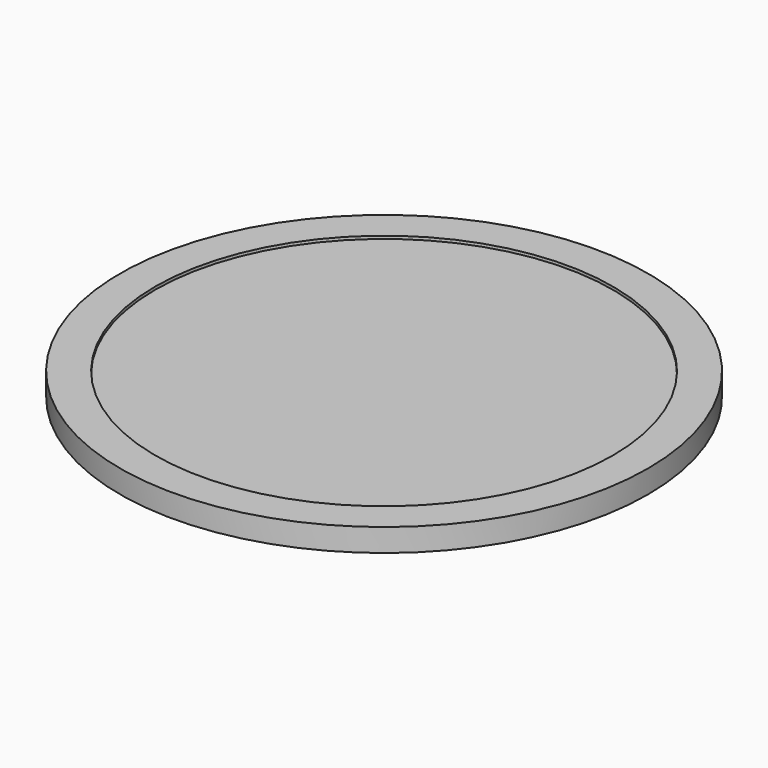
from build123d import *

# Parameters (mm, degrees)
SKETCH040_R   = 92.3
SKETCH040_R_2 = 80
PAD025_DEPTH  = 1
SKETCH041_R   = 92.3
SKETCH041_R_2 = 90
PAD026_DEPTH  = 5
FILLET_R      = 4
SKETCH042_R   = 92.3
PAD027_DEPTH  = 2


with BuildPart() as part:
    # Sketch040 → Pad025 (new body)
    with BuildSketch(Plane.XY):
        Circle(SKETCH040_R)
        Circle(SKETCH040_R_2, mode=Mode.SUBTRACT)
    extrude(amount=PAD025_DEPTH)

    # Sketch041 (on Face3 of Pad025) → Pad026 (join)
    with BuildSketch(Plane(origin=(0, 0, 0), x_dir=(1, 0, 0), z_dir=(0, 0, -1))):
        Circle(SKETCH041_R)
        Circle(SKETCH041_R_2, mode=Mode.SUBTRACT)
    extrude(amount=PAD026_DEPTH)

    # Fillet
    fillet_edges = [part.edges().sort_by_distance(p)[0] for p in [
        (-90, 0, 0),
    ]]
    fillet(fillet_edges, radius=FILLET_R)

    # Sketch042 (on Face3 of Fillet) → Pad027 (join)
    with BuildSketch(Plane(origin=(0, 0, -5), x_dir=(1, 0, 0), z_dir=(0, 0, -1))):
        Circle(SKETCH042_R)
    extrude(amount=PAD027_DEPTH)


with BuildPart() as part_1:
    # Body025 placement: moved
    add(part.part.moved(Location((0, 0, -1.6))))


solid = part_1.part
